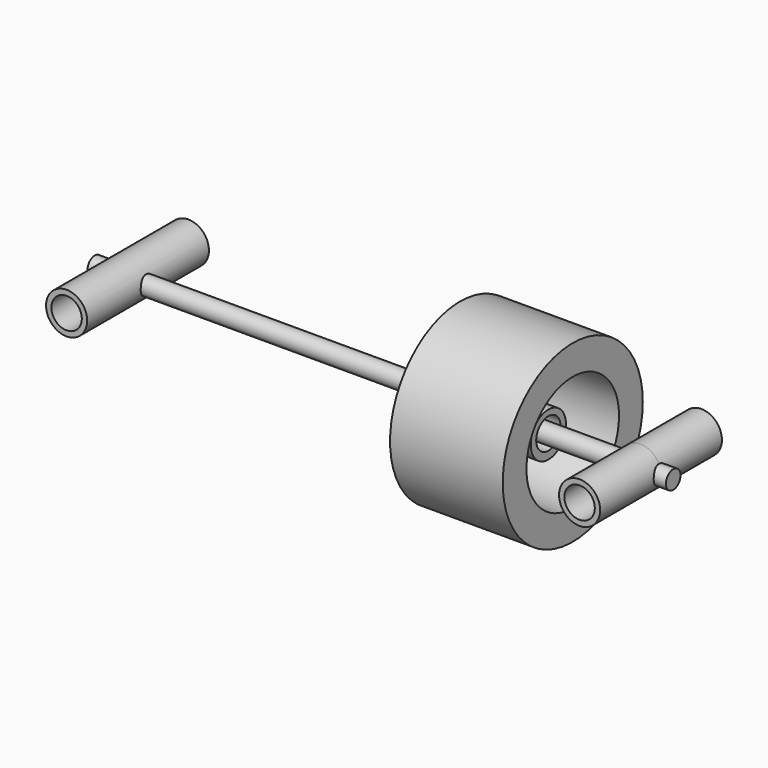
from build123d import *

# Parameters (mm, degrees)
F0_R     = 6
F1_DEPTH = 190
F2_R     = 13.5
F2_R_2   = 10
F3_DEPTH = 50
F5_R     = 57.5
F5_R_2   = 38
F6_DEPTH = 74
F8_R     = 14.492787
F8_R_2   = 10
F9_DEPTH = 25


with BuildPart() as f1:
    # F0 (on Right) → F1 (new body, symmetric)
    with BuildSketch(Plane.YZ):
        Circle(F0_R)
    extrude(amount=F1_DEPTH, both=True)

    # F2 (on Front) → F3 (join, symmetric)
    with BuildSketch(Plane.XZ):
        with Locations((168.5, 0)):
            Circle(F2_R)
        with Locations((168.5, 0)):
            Circle(F2_R_2, mode=Mode.SUBTRACT)
        with Locations((-168.5, 0)):
            Circle(F2_R)
        with Locations((-168.5, 0)):
            Circle(F2_R_2, mode=Mode.SUBTRACT)
    extrude(amount=F3_DEPTH, both=True)


with BuildPart() as f6:
    # F5 (on offset) → F6 (new body)
    with BuildSketch(Plane.YZ.offset(50)):
        Circle(F5_R)
        Circle(F5_R_2, mode=Mode.SUBTRACT)
    extrude(amount=F6_DEPTH)


with BuildPart() as f9:
    # F8 (on offset) → F9 (new body)
    with BuildSketch(Plane.YZ.offset(83)):
        with Locations((-1e-06, -0.653976)):
            Circle(F8_R)
        Circle(F8_R_2, mode=Mode.SUBTRACT)
    extrude(amount=F9_DEPTH)


solid = Compound([f1.part, f6.part, f9.part])
